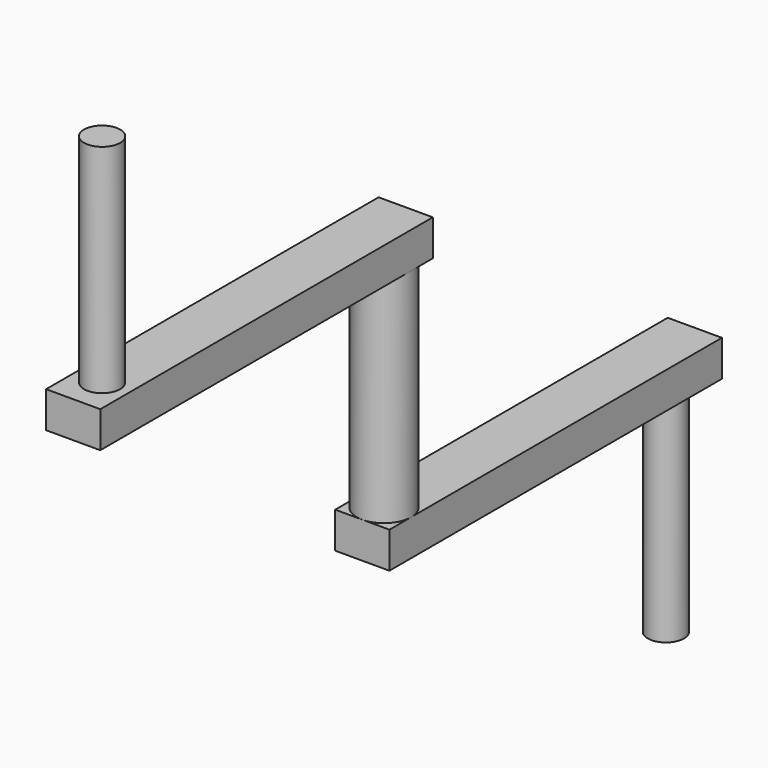
from build123d import *

# Parameters (mm, degrees)
F0_R      = 9.525
F1_DEPTH  = 38.1
F2_W      = 19.05
F2_H      = 19.05
F3_DEPTH  = 12.7
F4_W      = 19.05
F4_H      = 12.7
F5_DEPTH  = 127
F6_W      = 19.05
F6_H      = 19.05
F7_DEPTH  = 12.7
F8_W      = 19.05
F8_H      = 12.7
F9_DEPTH  = 127
F10_R     = 6.35
F11_DEPTH = 76.2
F12_R     = 6.35
F13_DEPTH = 76.2


with BuildPart() as f1:
    # F0 (on Top) → F1 (new body, symmetric)
    with BuildSketch(Plane.XY):
        Circle(F0_R)
    extrude(amount=F1_DEPTH, both=True)

    # F2 (on face) → F3 (join)
    with BuildSketch(Plane.XY.offset(38.1)):
        Rectangle(F2_W, F2_H)
    extrude(amount=F3_DEPTH)

    # F4 (on face) → F5 (join)
    with BuildSketch(Plane.XZ.offset(9.525)):
        with Locations((0, 44.45)):
            Rectangle(F4_W, F4_H)
    extrude(amount=F5_DEPTH)

    # F6 (on face) → F7 (join)
    with BuildSketch(Plane(origin=(0, 0, -38.1), x_dir=(1, 0, 0), z_dir=(0, 0, -1))):
        Rectangle(F6_W, F6_H)
    extrude(amount=F7_DEPTH)

    # F8 (on face) → F9 (join)
    with BuildSketch(Plane(origin=(0, 9.525, 0), x_dir=(-1, 0, 0), z_dir=(0, 1, 0))):
        with Locations((0, -44.45)):
            Rectangle(F8_W, F8_H)
    extrude(amount=F9_DEPTH)

    # F10 (on face) → F11 (join)
    with BuildSketch(Plane.XY.offset(50.8)):
        with Locations((0, -123.825)):
            Circle(F10_R)
    extrude(amount=F11_DEPTH)

    # F12 (on face) → F13 (join)
    with BuildSketch(Plane(origin=(0, 0, -50.8), x_dir=(1, 0, 0), z_dir=(0, 0, -1))):
        with Locations((0, -123.825)):
            Circle(F12_R)
    extrude(amount=F13_DEPTH)


solid = f1.part
